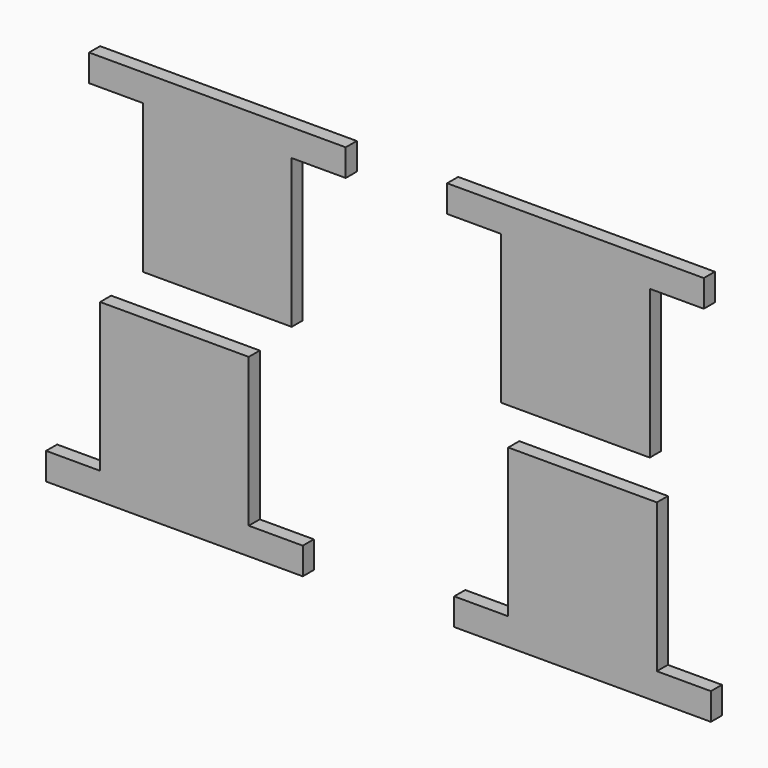
from build123d import *

# Parameters (mm, degrees)
F1_DEPTH = 12.954


with BuildPart() as f1:
    # F0 (on Front) → F1 (new body)
    with BuildSketch(Plane.XZ):
        Polygon((-237.281676, 170.341639), (-237.281676, 30.641639), (-97.581676, 30.641639), (-97.581676, 170.341639), (-46.781676, 170.341639), (-46.781676, 195.741639), (-288.081676, 195.741639), (-288.081676, 170.341639), align=None)
        Polygon((99.319823, 31.90455), (239.019823, 31.90455), (239.019823, 171.60455), (289.819823, 171.60455), (289.819823, 197.00455), (48.519823, 197.00455), (48.519823, 171.60455), (99.319823, 171.60455), align=None)
        Polygon((-137.97479, -7.338309), (-277.67479, -7.338309), (-277.67479, -147.038309), (-328.47479, -147.038309), (-328.47479, -172.438309), (-87.17479, -172.438309), (-87.17479, -147.038309), (-137.97479, -147.038309), align=None)
        Polygon((245.676165, -142.690999), (245.676165, -2.990999), (105.976165, -2.990999), (105.976165, -142.690999), (55.176165, -142.690999), (55.176165, -168.090999), (296.476165, -168.090999), (296.476165, -142.690999), align=None)
    extrude(amount=F1_DEPTH)


solid = f1.part
